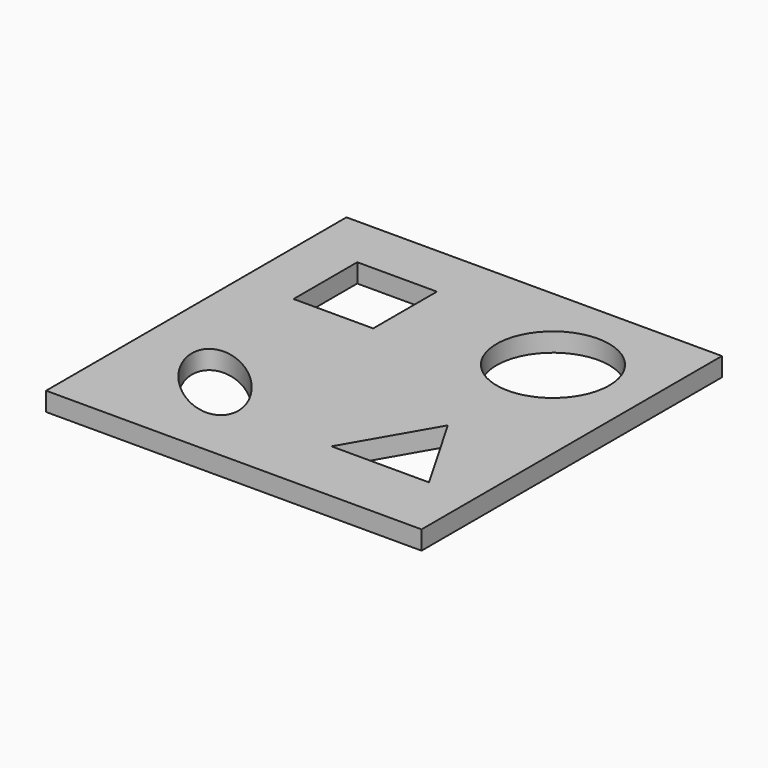
from build123d import *

# Parameters (mm, degrees)
SKETCH_W     = 200
SKETCH_H     = 200
PAD_DEPTH    = 10
SKETCH001_R  = 30
SKETCH001_W  = 42.426406
SKETCH001_H  = 42.426406
POCKET_DEPTH = 10.001


with BuildPart() as part:
    # Sketch → Pad (new body)
    with BuildSketch(Plane.XY):
        Rectangle(SKETCH_W, SKETCH_H)
    extrude(amount=PAD_DEPTH)

    # Sketch001 (on Face6 of Pad) → Pocket (cut, through all)
    with BuildSketch(Plane.XY.offset(10)):
        with Locations((50, 50)):
            Circle(SKETCH001_R)
        with BuildLine():
            add(Edge.make_bspline(
                [(-28.786797, -71.213203), (-10.415623, -52.84203), (-51.421015, -30.207812), (-92.426407, -7.573593), (-69.792188, -48.578985), (-47.15797, -89.584377), (-28.786797, -71.213203)],
                knots=[0, 0, 0, 2.094395, 2.094395, 4.18879, 4.18879, 6.283185, 6.283185, 6.283185], degree=2, weights=[1, 0.5, 1, 0.5, 1, 0.5, 1]))
        make_face()
        Polygon((75.980762, -65), (50, -20), (24.019238, -65), align=None)
        with Locations((-50, 50)):
            Rectangle(SKETCH001_W, SKETCH001_H)
    extrude(amount=-POCKET_DEPTH, mode=Mode.SUBTRACT)


solid = part.part
